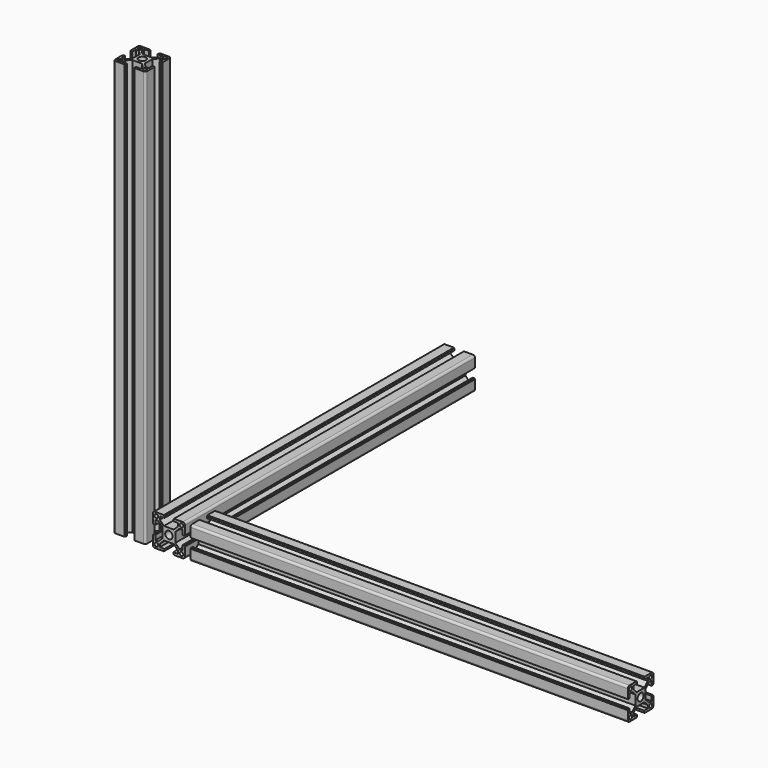
from build123d import *

# Parameters (mm, degrees)
F0_R     = 1.75
F0_R_2   = 3.5
F1_DEPTH = 340
F2_R     = 1.75
F2_R_2   = 3.5
F3_DEPTH = 390
F4_R     = 1.75
F4_R_2   = 3.5
F5_DEPTH = 410


with BuildPart() as f1:
    # F0 (on Front) → F1 (new body)
    with BuildSketch(Plane.XZ):
        with BuildLine():
            Line((-25.040603, 30), (-33.340603, 30))
            ThreePointArc((-33.340603, 30), (-34.754817, 29.414214), (-35.340603, 28))
            Line((-35.340603, 28), (-35.340603, 19.7))
            Line((-35.340603, 19.7), (-34.840603, 19.7))
            Line((-34.840603, 19.7), (-34.840603, 19.1))
            Line((-34.840603, 19.1), (-33.140603, 19.1))
            Line((-33.140603, 19.1), (-33.140603, 23.5))
            Line((-33.140603, 23.5), (-30.254817, 23.5))
            Line((-30.254817, 23.5), (-26.340603, 19.585786))
            Line((-26.340603, 19.585786), (-26.340603, 10.414214))
            Line((-26.340603, 10.414214), (-30.254817, 6.5))
            Line((-30.254817, 6.5), (-33.140603, 6.5))
            Line((-33.140603, 6.5), (-33.140603, 10.9))
            Line((-33.140603, 10.9), (-34.840603, 10.9))
            Line((-34.840603, 10.9), (-34.840603, 10.3))
            Line((-34.840603, 10.3), (-35.340603, 10.3))
            Line((-35.340603, 10.3), (-35.340603, 2))
            ThreePointArc((-35.340603, 2), (-34.754817, 0.585786), (-33.340603, 0))
            Line((-33.340603, 0), (-25.040603, 0))
            Line((-25.040603, 0), (-25.040603, 0.5))
            Line((-25.040603, 0.5), (-24.440603, 0.5))
            Line((-24.440603, 0.5), (-24.440603, 2.2))
            Line((-24.440603, 2.2), (-28.840603, 2.2))
            Line((-28.840603, 2.2), (-28.840603, 5.085786))
            Line((-28.840603, 5.085786), (-24.92639, 9))
            Line((-24.92639, 9), (-15.754817, 9))
            Line((-15.754817, 9), (-11.840603, 5.085786))
            Line((-11.840603, 5.085786), (-11.840603, 2.2))
            Line((-11.840603, 2.2), (-16.240603, 2.2))
            Line((-16.240603, 2.2), (-16.240603, 0.5))
            Line((-16.240603, 0.5), (-15.640603, 0.5))
            Line((-15.640603, 0.5), (-15.640603, 0))
            Line((-15.640603, 0), (-7.340603, 0))
            ThreePointArc((-7.340603, 0), (-5.92639, 0.585786), (-5.340603, 2))
            Line((-5.340603, 2), (-5.340603, 10.3))
            Line((-5.340603, 10.3), (-5.840603, 10.3))
            Line((-5.840603, 10.3), (-5.840603, 10.9))
            Line((-5.840603, 10.9), (-7.540603, 10.9))
            Line((-7.540603, 10.9), (-7.540603, 6.5))
            Line((-7.540603, 6.5), (-10.42639, 6.5))
            Line((-10.42639, 6.5), (-14.340603, 10.414214))
            Line((-14.340603, 10.414214), (-14.340603, 19.585786))
            Line((-14.340603, 19.585786), (-10.42639, 23.5))
            Line((-10.42639, 23.5), (-7.540603, 23.5))
            Line((-7.540603, 23.5), (-7.540603, 19.1))
            Line((-7.540603, 19.1), (-5.840603, 19.1))
            Line((-5.840603, 19.1), (-5.840603, 19.7))
            Line((-5.840603, 19.7), (-5.340603, 19.7))
            Line((-5.340603, 19.7), (-5.340603, 28))
            ThreePointArc((-5.340603, 28), (-5.92639, 29.414214), (-7.340603, 30))
            Line((-7.340603, 30), (-15.640603, 30))
            Line((-15.640603, 30), (-15.640603, 29.5))
            Line((-15.640603, 29.5), (-16.240603, 29.5))
            Line((-16.240603, 29.5), (-16.240603, 27.8))
            Line((-16.240603, 27.8), (-11.840603, 27.8))
            Line((-11.840603, 27.8), (-11.840603, 24.914214))
            Line((-11.840603, 24.914214), (-15.754817, 21))
            Line((-15.754817, 21), (-24.92639, 21))
            Line((-24.92639, 21), (-28.840603, 24.914214))
            Line((-28.840603, 24.914214), (-28.840603, 27.8))
            Line((-28.840603, 27.8), (-24.440603, 27.8))
            Line((-24.440603, 27.8), (-24.440603, 29.5))
            Line((-24.440603, 29.5), (-25.040603, 29.5))
            Line((-25.040603, 29.5), (-25.040603, 30))
        make_face()
        with Locations((-32.090603, 3.25)):
            Circle(F0_R, mode=Mode.SUBTRACT)
        with Locations((-8.590603, 3.25)):
            Circle(F0_R, mode=Mode.SUBTRACT)
        with Locations((-20.340603, 15)):
            Circle(F0_R_2, mode=Mode.SUBTRACT)
        with Locations((-32.090603, 26.75)):
            Circle(F0_R, mode=Mode.SUBTRACT)
        with Locations((-8.590603, 26.75)):
            Circle(F0_R, mode=Mode.SUBTRACT)
    extrude(amount=-F1_DEPTH)


with BuildPart() as f3:
    # F2 (on Top) → F3 (new body)
    with BuildSketch(Plane.XY):
        with BuildLine():
            Line((-61.989955, 30), (-70.289955, 30))
            ThreePointArc((-70.289955, 30), (-71.704168, 29.414214), (-72.289955, 28))
            Line((-72.289955, 28), (-72.289955, 19.7))
            Line((-72.289955, 19.7), (-71.789955, 19.7))
            Line((-71.789955, 19.7), (-71.789955, 19.1))
            Line((-71.789955, 19.1), (-70.089955, 19.1))
            Line((-70.089955, 19.1), (-70.089955, 23.5))
            Line((-70.089955, 23.5), (-67.204168, 23.5))
            Line((-67.204168, 23.5), (-63.289955, 19.585786))
            Line((-63.289955, 19.585786), (-63.289955, 10.414214))
            Line((-63.289955, 10.414214), (-67.204168, 6.5))
            Line((-67.204168, 6.5), (-70.089955, 6.5))
            Line((-70.089955, 6.5), (-70.089955, 10.9))
            Line((-70.089955, 10.9), (-71.789955, 10.9))
            Line((-71.789955, 10.9), (-71.789955, 10.3))
            Line((-71.789955, 10.3), (-72.289955, 10.3))
            Line((-72.289955, 10.3), (-72.289955, 2))
            ThreePointArc((-72.289955, 2), (-71.704168, 0.585786), (-70.289955, 0))
            Line((-70.289955, 0), (-61.989955, 0))
            Line((-61.989955, 0), (-61.989955, 0.5))
            Line((-61.989955, 0.5), (-61.389955, 0.5))
            Line((-61.389955, 0.5), (-61.389955, 2.2))
            Line((-61.389955, 2.2), (-65.789955, 2.2))
            Line((-65.789955, 2.2), (-65.789955, 5.085786))
            Line((-65.789955, 5.085786), (-61.875741, 9))
            Line((-61.875741, 9), (-52.704168, 9))
            Line((-52.704168, 9), (-48.789955, 5.085786))
            Line((-48.789955, 5.085786), (-48.789955, 2.2))
            Line((-48.789955, 2.2), (-53.189955, 2.2))
            Line((-53.189955, 2.2), (-53.189955, 0.5))
            Line((-53.189955, 0.5), (-52.589955, 0.5))
            Line((-52.589955, 0.5), (-52.589955, 0))
            Line((-52.589955, 0), (-44.289955, 0))
            ThreePointArc((-44.289955, 0), (-42.875741, 0.585786), (-42.289955, 2))
            Line((-42.289955, 2), (-42.289955, 10.3))
            Line((-42.289955, 10.3), (-42.789955, 10.3))
            Line((-42.789955, 10.3), (-42.789955, 10.9))
            Line((-42.789955, 10.9), (-44.489955, 10.9))
            Line((-44.489955, 10.9), (-44.489955, 6.5))
            Line((-44.489955, 6.5), (-47.375741, 6.5))
            Line((-47.375741, 6.5), (-51.289955, 10.414214))
            Line((-51.289955, 10.414214), (-51.289955, 19.585786))
            Line((-51.289955, 19.585786), (-47.375741, 23.5))
            Line((-47.375741, 23.5), (-44.489955, 23.5))
            Line((-44.489955, 23.5), (-44.489955, 19.1))
            Line((-44.489955, 19.1), (-42.789955, 19.1))
            Line((-42.789955, 19.1), (-42.789955, 19.7))
            Line((-42.789955, 19.7), (-42.289955, 19.7))
            Line((-42.289955, 19.7), (-42.289955, 28))
            ThreePointArc((-42.289955, 28), (-42.875741, 29.414214), (-44.289955, 30))
            Line((-44.289955, 30), (-52.589955, 30))
            Line((-52.589955, 30), (-52.589955, 29.5))
            Line((-52.589955, 29.5), (-53.189955, 29.5))
            Line((-53.189955, 29.5), (-53.189955, 27.8))
            Line((-53.189955, 27.8), (-48.789955, 27.8))
            Line((-48.789955, 27.8), (-48.789955, 24.914214))
            Line((-48.789955, 24.914214), (-52.704168, 21))
            Line((-52.704168, 21), (-61.875741, 21))
            Line((-61.875741, 21), (-65.789955, 24.914214))
            Line((-65.789955, 24.914214), (-65.789955, 27.8))
            Line((-65.789955, 27.8), (-61.389955, 27.8))
            Line((-61.389955, 27.8), (-61.389955, 29.5))
            Line((-61.389955, 29.5), (-61.989955, 29.5))
            Line((-61.989955, 29.5), (-61.989955, 30))
        make_face()
        with Locations((-69.039955, 3.25)):
            Circle(F2_R, mode=Mode.SUBTRACT)
        with Locations((-45.539955, 3.25)):
            Circle(F2_R, mode=Mode.SUBTRACT)
        with Locations((-57.289955, 15)):
            Circle(F2_R_2, mode=Mode.SUBTRACT)
        with Locations((-69.039955, 26.75)):
            Circle(F2_R, mode=Mode.SUBTRACT)
        with Locations((-45.539955, 26.75)):
            Circle(F2_R, mode=Mode.SUBTRACT)
    extrude(amount=F3_DEPTH)


with BuildPart() as f5:
    # F4 (on Right) → F5 (new body)
    with BuildSketch(Plane.YZ):
        with BuildLine():
            Line((10.3, 30), (2, 30))
            ThreePointArc((2, 30), (0.585786, 29.414214), (0, 28))
            Line((0, 28), (0, 19.7))
            Line((0, 19.7), (0.5, 19.7))
            Line((0.5, 19.7), (0.5, 19.1))
            Line((0.5, 19.1), (2.2, 19.1))
            Line((2.2, 19.1), (2.2, 23.5))
            Line((2.2, 23.5), (5.085786, 23.5))
            Line((5.085786, 23.5), (9, 19.585786))
            Line((9, 19.585786), (9, 10.414214))
            Line((9, 10.414214), (5.085786, 6.5))
            Line((5.085786, 6.5), (2.2, 6.5))
            Line((2.2, 6.5), (2.2, 10.9))
            Line((2.2, 10.9), (0.5, 10.9))
            Line((0.5, 10.9), (0.5, 10.3))
            Line((0.5, 10.3), (0, 10.3))
            Line((0, 10.3), (0, 2))
            ThreePointArc((0, 2), (0.585786, 0.585786), (2, 0))
            Line((2, 0), (10.3, 0))
            Line((10.3, 0), (10.3, 0.5))
            Line((10.3, 0.5), (10.9, 0.5))
            Line((10.9, 0.5), (10.9, 2.2))
            Line((10.9, 2.2), (6.5, 2.2))
            Line((6.5, 2.2), (6.5, 5.085786))
            Line((6.5, 5.085786), (10.414213, 9))
            Line((10.414213, 9), (19.585786, 9))
            Line((19.585786, 9), (23.5, 5.085786))
            Line((23.5, 5.085786), (23.5, 2.2))
            Line((23.5, 2.2), (19.1, 2.2))
            Line((19.1, 2.2), (19.1, 0.5))
            Line((19.1, 0.5), (19.7, 0.5))
            Line((19.7, 0.5), (19.7, 0))
            Line((19.7, 0), (28, 0))
            ThreePointArc((28, 0), (29.414213, 0.585786), (30, 2))
            Line((30, 2), (30, 10.3))
            Line((30, 10.3), (29.5, 10.3))
            Line((29.5, 10.3), (29.5, 10.9))
            Line((29.5, 10.9), (27.8, 10.9))
            Line((27.8, 10.9), (27.8, 6.5))
            Line((27.8, 6.5), (24.914213, 6.5))
            Line((24.914213, 6.5), (21, 10.414214))
            Line((21, 10.414214), (21, 19.585786))
            Line((21, 19.585786), (24.914213, 23.5))
            Line((24.914213, 23.5), (27.8, 23.5))
            Line((27.8, 23.5), (27.8, 19.1))
            Line((27.8, 19.1), (29.5, 19.1))
            Line((29.5, 19.1), (29.5, 19.7))
            Line((29.5, 19.7), (30, 19.7))
            Line((30, 19.7), (30, 28))
            ThreePointArc((30, 28), (29.414213, 29.414214), (28, 30))
            Line((28, 30), (19.7, 30))
            Line((19.7, 30), (19.7, 29.5))
            Line((19.7, 29.5), (19.1, 29.5))
            Line((19.1, 29.5), (19.1, 27.8))
            Line((19.1, 27.8), (23.5, 27.8))
            Line((23.5, 27.8), (23.5, 24.914214))
            Line((23.5, 24.914214), (19.585786, 21))
            Line((19.585786, 21), (10.414213, 21))
            Line((10.414213, 21), (6.5, 24.914214))
            Line((6.5, 24.914214), (6.5, 27.8))
            Line((6.5, 27.8), (10.9, 27.8))
            Line((10.9, 27.8), (10.9, 29.5))
            Line((10.9, 29.5), (10.3, 29.5))
            Line((10.3, 29.5), (10.3, 30))
        make_face()
        with Locations((3.25, 3.25)):
            Circle(F4_R, mode=Mode.SUBTRACT)
        with Locations((26.75, 3.25)):
            Circle(F4_R, mode=Mode.SUBTRACT)
        with Locations((3.25, 26.75)):
            Circle(F4_R, mode=Mode.SUBTRACT)
        with Locations((15, 15)):
            Circle(F4_R_2, mode=Mode.SUBTRACT)
        with Locations((26.75, 26.75)):
            Circle(F4_R, mode=Mode.SUBTRACT)
    extrude(amount=F5_DEPTH)


solid = Compound([f1.part, f3.part, f5.part])
